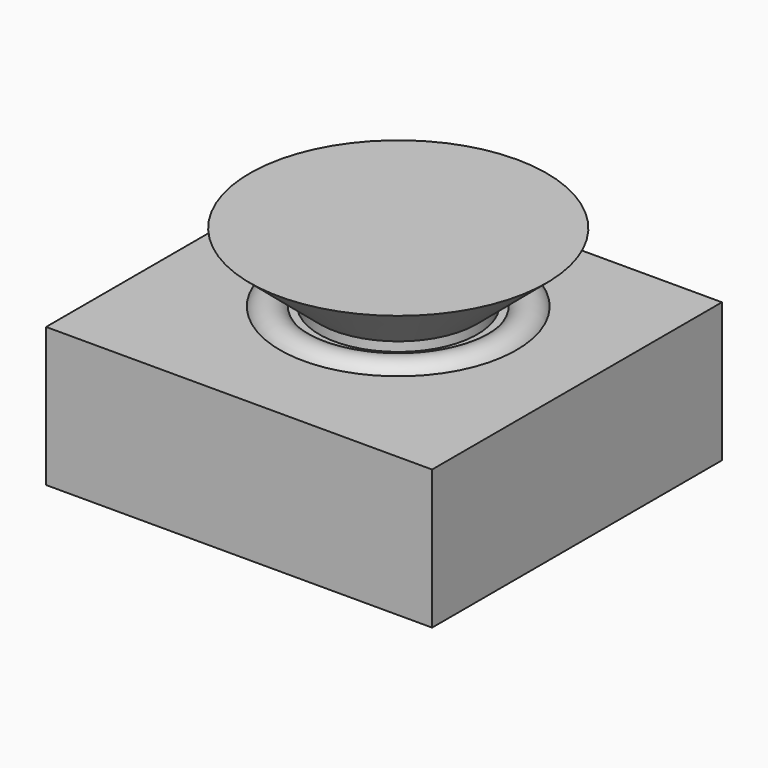
from build123d import *

# Parameters (mm, degrees)
SKETCH001_W    = 10.4
SKETCH001_H    = 9.76
PAD_DEPTH      = 0.75
PAD_DEPTH_BACK = 3


with BuildPart() as opening_revolve:
    # Sketch006 → Revolution (revolve)
    with BuildSketch(Plane.YZ):
        with BuildLine():
            Line((0, 0.49), (2.75, 0.49))
            ThreePointArc((2.75, 0.49), (3.188748, 1.229792), (2.329167, 1.26))
            Line((2.329167, 1.26), (2.129167, 1.26))
            Line((2.129167, 1.26), (2.129167, 1.51))
            Line((2.129167, 1.51), (4, 3.09))
            Line((4, 3.09), (0, 3.09))
            Line((0, 3.09), (0, 0.49))
        make_face()
    revolve(axis=Axis((0, 0, 0), (0, 0, 1)))


with BuildPart() as fusion:
    # Sketch001 → Pad (new body, two sides)
    with BuildSketch(Plane.XY) as pad_sk:
        with Locations((0, -0.48)):
            Rectangle(SKETCH001_W, SKETCH001_H)
    extrude(amount=PAD_DEPTH)
    extrude(pad_sk.sketch, amount=-PAD_DEPTH_BACK)


with BuildPart() as fusion_1:
    # Body001 placement: moved
    add(fusion.part.moved(Location((0, 0, 0.483))))

    # Fusion: union opening_revolve
    add(opening_revolve.part)


solid = fusion_1.part
